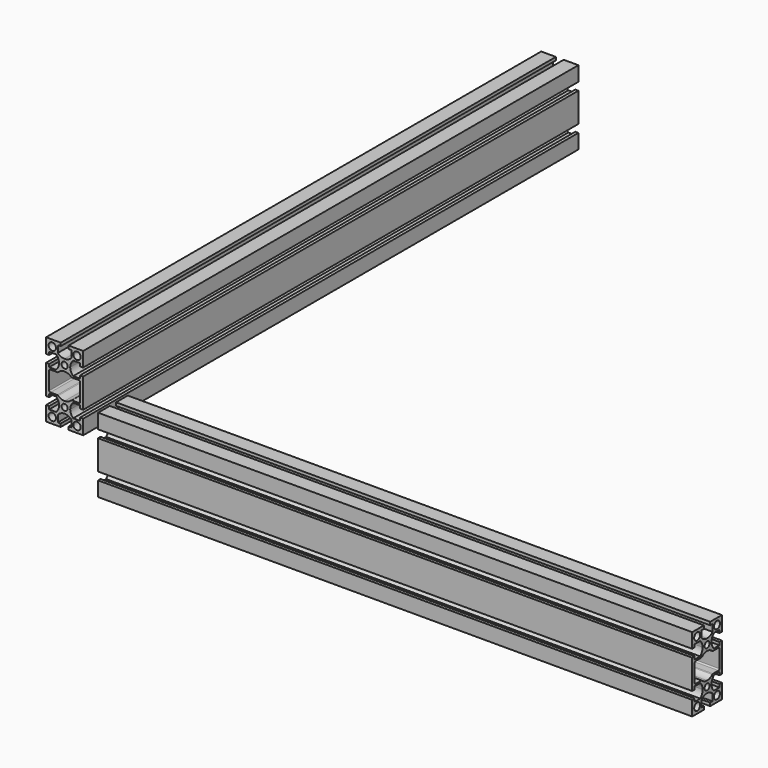
from build123d import *

# Parameters (mm, degrees)
F0_R     = 3
F0_R_2   = 2.5
F1_DEPTH = 500
F2_DEPTH = 480
F3_ANGLE = 90
F4_ANGLE = 270
F5_ANGLE = 90


with BuildPart() as f1:
    # F0 (on Top) → F1 (new body)
    with BuildSketch(Plane.XY):
        with BuildLine():
            Line((-3.15, 15), (-15, 15))
            Line((-15, 15), (-15, 3.15))
            Line((-15, 3.15), (-12.5, 3.15))
            Line((-12.5, 3.15), (-12.5, 5.5))
            Line((-12.5, 5.5), (-6.9009804864, 5.5))
            ThreePointArc((-6.9009804864, 5.5), (-5.1264039124, 3.0006127414), (-4.5, 0))
            ThreePointArc((-4.5, 0), (-5.1264039124, -3.0006127414), (-6.9009804864, -5.5))
            Line((-6.9009804864, -5.5), (-12.5, -5.5))
            Line((-12.5, -5.5), (-12.5, -3.15))
            Line((-12.5, -3.15), (-15, -3.15))
            Line((-15, -3.15), (-15, -15))
            Line((-15, -15), (-3.15, -15))
            Line((-3.15, -15), (-3.15, -12.5))
            Line((-3.15, -12.5), (-5.5, -12.5))
            Line((-5.5, -12.5), (-5.5, -6.9009804864))
            ThreePointArc((-5.5, -6.9009804864), (-3.0006127414, -5.1264039124), (0, -4.5))
            ThreePointArc((0, -4.5), (3.0006127414, -5.1264039124), (5.5, -6.9009804864))
            Line((5.5, -6.9009804864), (5.5, -12.5))
            Line((5.5, -12.5), (3.15, -12.5))
            Line((3.15, -12.5), (3.15, -15))
            Line((3.15, -15), (26.85, -15))
            Line((26.85, -15), (26.85, -12.5))
            Line((26.85, -12.5), (24.5, -12.5))
            Line((24.5, -12.5), (24.5, -6.9009804864))
            ThreePointArc((24.5, -6.9009804864), (26.9993872586, -5.1264039124), (30, -4.5))
            ThreePointArc((30, -4.5), (33.0006127414, -5.1264039124), (35.5, -6.9009804864))
            Line((35.5, -6.9009804864), (35.5, -12.5))
            Line((35.5, -12.5), (33.15, -12.5))
            Line((33.15, -12.5), (33.15, -15))
            Line((33.15, -15), (45, -15))
            Line((45, -15), (45, -3.15))
            Line((45, -3.15), (42.5, -3.15))
            Line((42.5, -3.15), (42.5, -5.5))
            Line((42.5, -5.5), (36.9009804864, -5.5))
            ThreePointArc((36.9009804864, -5.5), (35.1264039124, -3.0006127414), (34.5, 0))
            ThreePointArc((34.5, 0), (35.1264039124, 3.0006127414), (36.9009804864, 5.5))
            Line((36.9009804864, 5.5), (42.5, 5.5))
            Line((42.5, 5.5), (42.5, 3.15))
            Line((42.5, 3.15), (45, 3.15))
            Line((45, 3.15), (45, 15))
            Line((45, 15), (33.15, 15))
            Line((33.15, 15), (33.15, 12.5))
            Line((33.15, 12.5), (35.5, 12.5))
            Line((35.5, 12.5), (35.5, 6.9009804864))
            ThreePointArc((35.5, 6.9009804864), (33.0006127414, 5.1264039124), (30, 4.5))
            ThreePointArc((30, 4.5), (26.9993872586, 5.1264039124), (24.5, 6.9009804864))
            Line((24.5, 6.9009804864), (24.5, 12.5))
            Line((24.5, 12.5), (26.85, 12.5))
            Line((26.85, 12.5), (26.85, 15))
            Line((26.85, 15), (3.15, 15))
            Line((3.15, 15), (3.15, 12.5))
            Line((3.15, 12.5), (5.5, 12.5))
            Line((5.5, 12.5), (5.5, 6.9009804864))
            ThreePointArc((5.5, 6.9009804864), (3.0006127414, 5.1264039124), (0, 4.5))
            ThreePointArc((0, 4.5), (-3.0006127414, 5.1264039124), (-5.5, 6.9009804864))
            Line((-5.5, 6.9009804864), (-5.5, 12.5))
            Line((-5.5, 12.5), (-3.15, 12.5))
            Line((-3.15, 12.5), (-3.15, 15))
        make_face()
        with Locations((-10, -10)):
            Circle(F0_R, mode=Mode.SUBTRACT)
        with Locations((40, -10)):
            Circle(F0_R, mode=Mode.SUBTRACT)
        Circle(F0_R_2, mode=Mode.SUBTRACT)
        with Locations((-10, 10)):
            Circle(F0_R, mode=Mode.SUBTRACT)
        with BuildLine():
            ThreePointArc((6.6185121939, -5.223943816), (5.0497784731, -2.8185848802), (4.5, 0))
            ThreePointArc((4.5, 0), (5.0497784731, 2.8185848802), (6.6185121939, 5.223943816))
            ThreePointArc((6.6185121939, 5.223943816), (6.82767669, 5.5446583408), (6.9009804864, 5.9204696581))
            Line((6.9009804864, 5.9204696581), (6.9009804864, 11.5))
            ThreePointArc((6.9009804864, 11.5), (7.1938737052, 12.2071067812), (7.9009804864, 12.5))
            Line((7.9009804864, 12.5), (15, 12.5))
            Line((15, 12.5), (22.0990195136, 12.5))
            ThreePointArc((22.0990195136, 12.5), (22.8061262948, 12.2071067812), (23.0990195136, 11.5))
            Line((23.0990195136, 11.5), (23.0990195136, 5.9204696581))
            ThreePointArc((23.0990195136, 5.9204696581), (23.17232331, 5.5446583408), (23.3814878061, 5.223943816))
            ThreePointArc((23.3814878061, 5.223943816), (24.9502215269, 2.8185848802), (25.5, 0))
            ThreePointArc((25.5, 0), (24.9502215269, -2.8185848802), (23.3814878061, -5.223943816))
            ThreePointArc((23.3814878061, -5.223943816), (23.17232331, -5.5446583408), (23.0990195136, -5.9204696581))
            Line((23.0990195136, -5.9204696581), (23.0990195136, -11.5))
            ThreePointArc((23.0990195136, -11.5), (22.8061262948, -12.2071067812), (22.0990195136, -12.5))
            Line((22.0990195136, -12.5), (15, -12.5))
            Line((15, -12.5), (7.9009804864, -12.5))
            ThreePointArc((7.9009804864, -12.5), (7.1938737052, -12.2071067812), (6.9009804864, -11.5))
            Line((6.9009804864, -11.5), (6.9009804864, -5.9204696581))
            ThreePointArc((6.9009804864, -5.9204696581), (6.82767669, -5.5446583408), (6.6185121939, -5.223943816))
        make_face(mode=Mode.SUBTRACT)
        with Locations((30, 0)):
            Circle(F0_R_2, mode=Mode.SUBTRACT)
        with Locations((40, 10)):
            Circle(F0_R, mode=Mode.SUBTRACT)
    extrude(amount=F1_DEPTH)


with BuildPart() as f2:
    # F0 (on Top) → F2 (new body)
    with BuildSketch(Plane.XY):
        with BuildLine():
            Line((-3.15, 15), (-15, 15))
            Line((-15, 15), (-15, 3.15))
            Line((-15, 3.15), (-12.5, 3.15))
            Line((-12.5, 3.15), (-12.5, 5.5))
            Line((-12.5, 5.5), (-6.9009804864, 5.5))
            ThreePointArc((-6.9009804864, 5.5), (-5.1264039124, 3.0006127414), (-4.5, 0))
            ThreePointArc((-4.5, 0), (-5.1264039124, -3.0006127414), (-6.9009804864, -5.5))
            Line((-6.9009804864, -5.5), (-12.5, -5.5))
            Line((-12.5, -5.5), (-12.5, -3.15))
            Line((-12.5, -3.15), (-15, -3.15))
            Line((-15, -3.15), (-15, -15))
            Line((-15, -15), (-3.15, -15))
            Line((-3.15, -15), (-3.15, -12.5))
            Line((-3.15, -12.5), (-5.5, -12.5))
            Line((-5.5, -12.5), (-5.5, -6.9009804864))
            ThreePointArc((-5.5, -6.9009804864), (-3.0006127414, -5.1264039124), (0, -4.5))
            ThreePointArc((0, -4.5), (3.0006127414, -5.1264039124), (5.5, -6.9009804864))
            Line((5.5, -6.9009804864), (5.5, -12.5))
            Line((5.5, -12.5), (3.15, -12.5))
            Line((3.15, -12.5), (3.15, -15))
            Line((3.15, -15), (26.85, -15))
            Line((26.85, -15), (26.85, -12.5))
            Line((26.85, -12.5), (24.5, -12.5))
            Line((24.5, -12.5), (24.5, -6.9009804864))
            ThreePointArc((24.5, -6.9009804864), (26.9993872586, -5.1264039124), (30, -4.5))
            ThreePointArc((30, -4.5), (33.0006127414, -5.1264039124), (35.5, -6.9009804864))
            Line((35.5, -6.9009804864), (35.5, -12.5))
            Line((35.5, -12.5), (33.15, -12.5))
            Line((33.15, -12.5), (33.15, -15))
            Line((33.15, -15), (45, -15))
            Line((45, -15), (45, -3.15))
            Line((45, -3.15), (42.5, -3.15))
            Line((42.5, -3.15), (42.5, -5.5))
            Line((42.5, -5.5), (36.9009804864, -5.5))
            ThreePointArc((36.9009804864, -5.5), (35.1264039124, -3.0006127414), (34.5, 0))
            ThreePointArc((34.5, 0), (35.1264039124, 3.0006127414), (36.9009804864, 5.5))
            Line((36.9009804864, 5.5), (42.5, 5.5))
            Line((42.5, 5.5), (42.5, 3.15))
            Line((42.5, 3.15), (45, 3.15))
            Line((45, 3.15), (45, 15))
            Line((45, 15), (33.15, 15))
            Line((33.15, 15), (33.15, 12.5))
            Line((33.15, 12.5), (35.5, 12.5))
            Line((35.5, 12.5), (35.5, 6.9009804864))
            ThreePointArc((35.5, 6.9009804864), (33.0006127414, 5.1264039124), (30, 4.5))
            ThreePointArc((30, 4.5), (26.9993872586, 5.1264039124), (24.5, 6.9009804864))
            Line((24.5, 6.9009804864), (24.5, 12.5))
            Line((24.5, 12.5), (26.85, 12.5))
            Line((26.85, 12.5), (26.85, 15))
            Line((26.85, 15), (3.15, 15))
            Line((3.15, 15), (3.15, 12.5))
            Line((3.15, 12.5), (5.5, 12.5))
            Line((5.5, 12.5), (5.5, 6.9009804864))
            ThreePointArc((5.5, 6.9009804864), (3.0006127414, 5.1264039124), (0, 4.5))
            ThreePointArc((0, 4.5), (-3.0006127414, 5.1264039124), (-5.5, 6.9009804864))
            Line((-5.5, 6.9009804864), (-5.5, 12.5))
            Line((-5.5, 12.5), (-3.15, 12.5))
            Line((-3.15, 12.5), (-3.15, 15))
        make_face()
        with Locations((-10, -10)):
            Circle(F0_R, mode=Mode.SUBTRACT)
        with Locations((40, -10)):
            Circle(F0_R, mode=Mode.SUBTRACT)
        Circle(F0_R_2, mode=Mode.SUBTRACT)
        with Locations((-10, 10)):
            Circle(F0_R, mode=Mode.SUBTRACT)
        with BuildLine():
            ThreePointArc((6.6185121939, -5.223943816), (5.0497784731, -2.8185848802), (4.5, 0))
            ThreePointArc((4.5, 0), (5.0497784731, 2.8185848802), (6.6185121939, 5.223943816))
            ThreePointArc((6.6185121939, 5.223943816), (6.82767669, 5.5446583408), (6.9009804864, 5.9204696581))
            Line((6.9009804864, 5.9204696581), (6.9009804864, 11.5))
            ThreePointArc((6.9009804864, 11.5), (7.1938737052, 12.2071067812), (7.9009804864, 12.5))
            Line((7.9009804864, 12.5), (15, 12.5))
            Line((15, 12.5), (22.0990195136, 12.5))
            ThreePointArc((22.0990195136, 12.5), (22.8061262948, 12.2071067812), (23.0990195136, 11.5))
            Line((23.0990195136, 11.5), (23.0990195136, 5.9204696581))
            ThreePointArc((23.0990195136, 5.9204696581), (23.17232331, 5.5446583408), (23.3814878061, 5.223943816))
            ThreePointArc((23.3814878061, 5.223943816), (24.9502215269, 2.8185848802), (25.5, 0))
            ThreePointArc((25.5, 0), (24.9502215269, -2.8185848802), (23.3814878061, -5.223943816))
            ThreePointArc((23.3814878061, -5.223943816), (23.17232331, -5.5446583408), (23.0990195136, -5.9204696581))
            Line((23.0990195136, -5.9204696581), (23.0990195136, -11.5))
            ThreePointArc((23.0990195136, -11.5), (22.8061262948, -12.2071067812), (22.0990195136, -12.5))
            Line((22.0990195136, -12.5), (15, -12.5))
            Line((15, -12.5), (7.9009804864, -12.5))
            ThreePointArc((7.9009804864, -12.5), (7.1938737052, -12.2071067812), (6.9009804864, -11.5))
            Line((6.9009804864, -11.5), (6.9009804864, -5.9204696581))
            ThreePointArc((6.9009804864, -5.9204696581), (6.82767669, -5.5446583408), (6.6185121939, -5.223943816))
        make_face(mode=Mode.SUBTRACT)
        with Locations((30, 0)):
            Circle(F0_R_2, mode=Mode.SUBTRACT)
        with Locations((40, 10)):
            Circle(F0_R, mode=Mode.SUBTRACT)
    extrude(amount=F2_DEPTH)


with BuildPart() as f2_1:
    # F3: moved
    add(f2.part.rotate(Axis((45, -9.075, 0), (0, 1, 0)), F3_ANGLE))


with BuildPart() as f1_1:
    # F4: moved
    add(f1.part.rotate(Axis((-15, -15, 250), (0, 0, -1)), F4_ANGLE))


with BuildPart() as f1_2:
    # F5: moved
    add(f1_1.part.rotate(Axis((-20.925, 45, 0), (-1, 0, 0)), F5_ANGLE))


solid = Compound([f2_1.part, f1_2.part])
